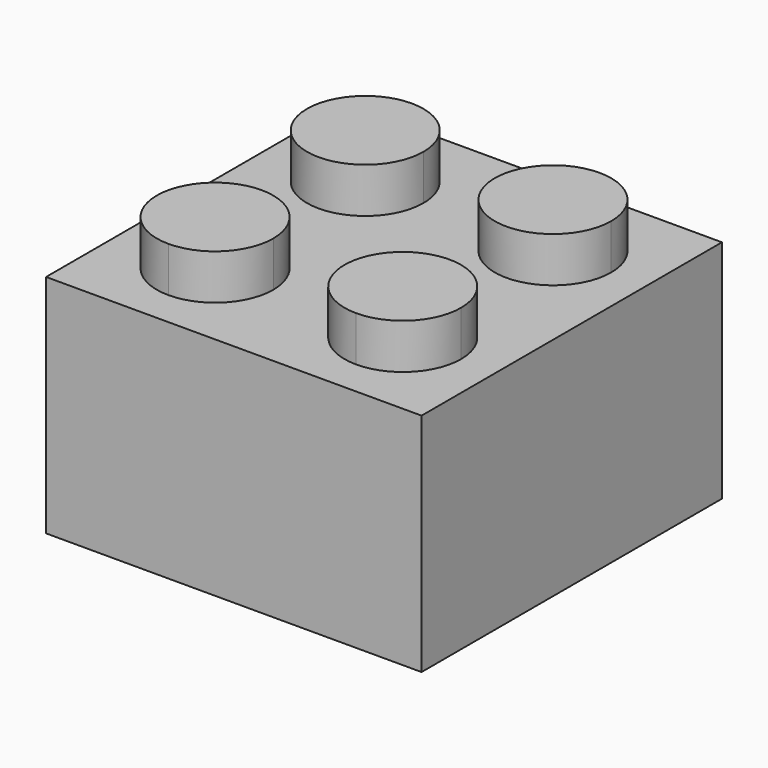
from build123d import *

# Parameters (mm, degrees)
F0_W          = 15.8
F0_H          = 15.8
F1_DEPTH      = 9.5
F0_R          = 3.05
F2_DEPTH      = 1
F0_R_2        = 2.25
F3_DEPTH      = 1.9
F3_DEPTH_BACK = 0.1
F4_DEPTH      = 8.9


with BuildPart() as f1:
    # F0 (on Top) → F1 (new body)
    with BuildSketch(Plane.XY):
        Rectangle(F0_W, F0_H)
        Polygon((3.95, 6.4), (6.4, 6.4), (6.4, 3.95), (6.4, -3.95), (6.4, -6.4), (3.95, -6.4), (-3.95, -6.4), (-6.4, -6.4), (-6.4, -3.95), (-6.4, 3.95), (-6.4, 6.4), (-3.95, 6.4), align=None, mode=Mode.SUBTRACT)
    extrude(amount=-F1_DEPTH)

    # F0 (on Top) → F2 (join)
    with BuildSketch(Plane.XY):
        with BuildLine():
            ThreePointArc((6.4, 3.95), (2.2175883861, 2.2175883861), (3.95, 6.4))
            Line((3.95, 6.4), (-3.95, 6.4))
            ThreePointArc((-3.95, 6.4), (-2.2175883861, 5.6824116139), (-1.5, 3.95))
            ThreePointArc((-1.5, 3.95), (-3.95, 1.5), (-6.4, 3.95))
            Line((-6.4, 3.95), (-6.4, -3.95))
            ThreePointArc((-6.4, -3.95), (-3.95, -1.5), (-1.5, -3.95))
            ThreePointArc((-1.5, -3.95), (-2.2175883861, -5.6824116139), (-3.95, -6.4))
            Line((-3.95, -6.4), (3.95, -6.4))
            ThreePointArc((3.95, -6.4), (2.2175883861, -2.2175883861), (6.4, -3.95))
            Line((6.4, -3.95), (6.4, 3.95))
        make_face()
        Circle(F0_R, mode=Mode.SUBTRACT)
        with BuildLine():
            ThreePointArc((-6.4, 3.95), (-5.6824116139, 5.6824116139), (-3.95, 6.4))
            Line((-3.95, 6.4), (-6.4, 6.4))
            Line((-6.4, 6.4), (-6.4, 3.95))
        make_face()
        with BuildLine():
            Line((6.4, 3.95), (6.4, 6.4))
            Line((6.4, 6.4), (3.95, 6.4))
            ThreePointArc((3.95, 6.4), (5.6824116139, 5.6824116139), (6.4, 3.95))
        make_face()
        with BuildLine():
            Line((6.4, -6.4), (6.4, -3.95))
            ThreePointArc((6.4, -3.95), (5.6824116139, -5.6824116139), (3.95, -6.4))
            Line((3.95, -6.4), (6.4, -6.4))
        make_face()
        with BuildLine():
            ThreePointArc((-3.95, -6.4), (-5.6824116139, -5.6824116139), (-6.4, -3.95))
            Line((-6.4, -3.95), (-6.4, -6.4))
            Line((-6.4, -6.4), (-3.95, -6.4))
        make_face()
    extrude(amount=-F2_DEPTH)

    # F0 (on Top) → F3 (join, two sides)
    with BuildSketch(Plane.XY) as f3_sk:
        with BuildLine():
            ThreePointArc((-1.5, -3.95), (-3.95, -1.5), (-6.4, -3.95))
            ThreePointArc((-6.4, -3.95), (-5.6824116139, -5.6824116139), (-3.95, -6.4))
            ThreePointArc((-3.95, -6.4), (-2.2175883861, -5.6824116139), (-1.5, -3.95))
        make_face()
        with BuildLine():
            ThreePointArc((-1.5, 3.95), (-2.2175883861, 5.6824116139), (-3.95, 6.4))
            ThreePointArc((-3.95, 6.4), (-5.6824116139, 5.6824116139), (-6.4, 3.95))
            ThreePointArc((-6.4, 3.95), (-3.95, 1.5), (-1.5, 3.95))
        make_face()
        with BuildLine():
            ThreePointArc((6.4, 3.95), (5.6824116139, 5.6824116139), (3.95, 6.4))
            ThreePointArc((3.95, 6.4), (2.2175883861, 2.2175883861), (6.4, 3.95))
        make_face()
        with BuildLine():
            ThreePointArc((3.95, -6.4), (5.6824116139, -5.6824116139), (6.4, -3.95))
            ThreePointArc((6.4, -3.95), (2.2175883861, -2.2175883861), (3.95, -6.4))
        make_face()
    extrude(amount=F3_DEPTH)
    extrude(f3_sk.sketch, amount=-F3_DEPTH_BACK)



with BuildPart() as f2:
    # F0 (on Top) → F2, piece 2 (new body)
    with BuildSketch(Plane.XY):
        Circle(F0_R_2)
    extrude(amount=-F2_DEPTH)


with BuildPart() as f1_1:
    add(f1.part)

    add(f2.part)  # F4 merges F2
    # F0 (on Top) → F4 (join)
    with BuildSketch(Plane.XY):
        Circle(F0_R)
        Circle(F0_R_2, mode=Mode.SUBTRACT)
    extrude(amount=-F4_DEPTH)


solid = f1_1.part
